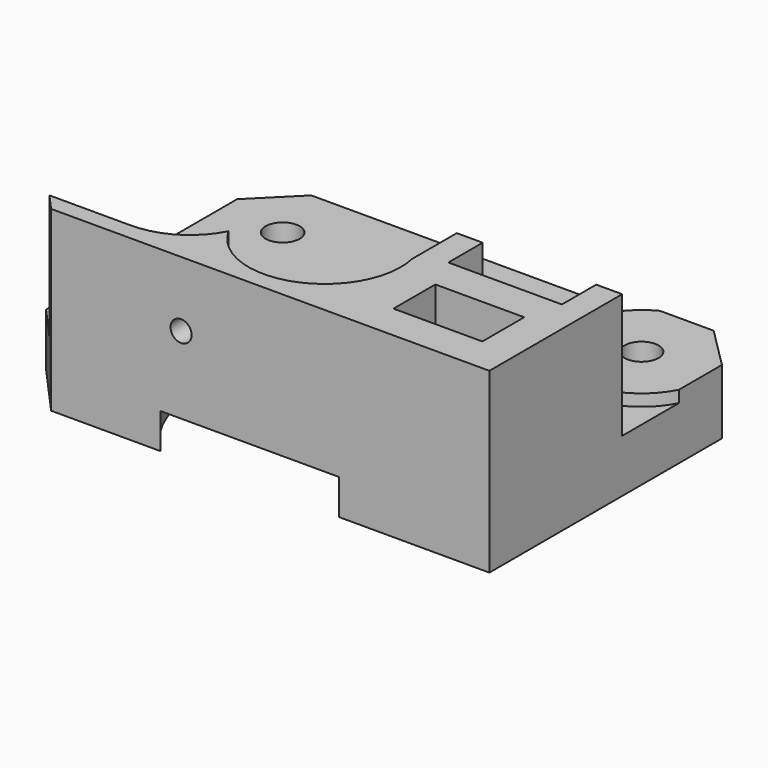
from build123d import *

# Parameters (mm, degrees)
F0_W           = 7.551756
F0_H           = 4.45
F1_DEPTH       = 15.1
F0_R           = 1.45
F0_R_2         = 1.44
F2_DEPTH       = 4.5
F3_DEPTH       = 5.5
F4_R           = 11
F5_DEPTH       = 3
F6_R           = 2.25
F7_DEPTH       = 14
F8_D           = 1.79
F8_CBORE_D     = 1.79
F8_CBORE_DEPTH = 1.45


with BuildPart() as f1:
    # F0 (on Top) → F1 (new body)
    with BuildSketch(Plane.XY):
        with BuildLine():
            Line((2.65426, 1.450184), (3.954988, 0))
            Line((3.954988, 0), (41.2, 0))
            Line((41.2, 0), (41.2, 10.45))
            Line((41.2, 10.45), (41.2, 14.1))
            Line((41.2, 14.1), (39, 14.1))
            Line((39, 14.1), (39, 10.45))
            Line((39, 10.45), (29.35, 10.45))
            Line((29.35, 10.45), (29.35, 14.1))
            Line((29.35, 14.1), (27.15, 14.1))
            Line((27.15, 14.1), (27.15, 10.45))
            Line((27.15, 10.45), (27.15, 9.360534))
            ThreePointArc((27.15, 9.360534), (23.102126, 1.90917), (15.151799, 4.858818))
            ThreePointArc((15.151799, 4.858818), (12.818666, 2.347317), (9.508541, 1.45613))
            Line((9.508541, 1.45613), (9.425105, 1.450184))
            Line((9.425105, 1.450184), (2.65426, 1.450184))
        make_face()
        with Locations((34.424122, 5.225)):
            Rectangle(F0_W, F0_H, mode=Mode.SUBTRACT)
    extrude(amount=F1_DEPTH)

    # F0 (on Top) → F2 (join)
    with BuildSketch(Plane.XY):
        with BuildLine():
            Line((0, 4.409424), (2.65426, 1.450184))
            Line((2.65426, 1.450184), (9.425105, 1.450184))
            Line((9.425105, 1.450184), (9.508541, 1.45613))
            ThreePointArc((9.508541, 1.45613), (12.818666, 2.347317), (15.151799, 4.858818))
            ThreePointArc((15.151799, 4.858818), (23.102126, 1.90917), (27.15, 9.360534))
            Line((27.15, 9.360534), (27.15, 10.45))
            Line((27.15, 10.45), (27.15, 14.1))
            Line((27.15, 14.1), (29.35, 14.1))
            Line((29.35, 14.1), (29.35, 10.45))
            Line((29.35, 10.45), (39, 10.45))
            Line((39, 10.45), (39, 14.1))
            Line((39, 14.1), (41.2, 14.1))
            Line((41.2, 14.1), (41.2, 20.133845))
            ThreePointArc((41.2, 20.133845), (31.607359, 18.607359), (33.133845, 28.2))
            Line((33.133845, 28.2), (8.066155, 28.2))
            ThreePointArc((8.066155, 28.2), (9.592641, 18.607359), (0, 20.133845))
            Line((0, 20.133845), (0, 4.409424))
        make_face()
        with BuildLine():
            ThreePointArc((15.044259, 5.607124), (11.225264, 2.020343), (6.018226, 2.600408))
            ThreePointArc((6.018226, 2.600408), (4.726842, 11.501576), (13.680284, 12.358524))
            ThreePointArc((13.680284, 12.358524), (14.464459, 11.395564), (15.042763, 10.296571))
            ThreePointArc((15.042763, 10.296571), (15.139305, 10.532994), (15.245029, 10.765456))
            ThreePointArc((15.245029, 10.765456), (26.649775, 8.002179), (15.294389, 5.042598))
            ThreePointArc((15.294389, 5.042598), (15.162653, 5.321905), (15.044259, 5.607124))
        make_face(mode=Mode.SUBTRACT)
        with BuildLine():
            Line((0, 24.7), (0, 20.133845))
            ThreePointArc((0, 20.133845), (9.592641, 18.607359), (8.066155, 28.2))
            Line((8.066155, 28.2), (3.5, 28.2))
            Line((3.5, 28.2), (0, 24.7))
        make_face()
        with Locations((5.35, 22.85)):
            Circle(F0_R, mode=Mode.SUBTRACT)
        with BuildLine():
            ThreePointArc((13.680284, 12.358524), (4.726842, 11.501576), (6.018226, 2.600408))
            ThreePointArc((6.018226, 2.600408), (11.225264, 2.020343), (15.044259, 5.607124))
            ThreePointArc((15.044259, 5.607124), (14.926049, 5.938205), (14.825812, 6.275163))
            Line((14.825812, 6.275163), (14.824682, 6.275163))
            ThreePointArc((14.824682, 6.275163), (14.615506, 8.303124), (15.042763, 10.296571))
            ThreePointArc((15.042763, 10.296571), (14.464459, 11.395564), (13.680284, 12.358524))
        make_face()
        with Locations((9.25, 7.95)):
            Circle(F0_R_2, mode=Mode.SUBTRACT)
        with Locations((9.25, 7.95)):
            Circle(F0_R_2)
        with Locations((34.424122, 5.225)):
            Rectangle(F0_W, F0_H)
    extrude(amount=F2_DEPTH)

    # F0 (on Top) → F3 (join)
    with BuildSketch(Plane.XY):
        with BuildLine():
            ThreePointArc((33.133845, 28.2), (31.607359, 18.607359), (41.2, 20.133845))
            Line((41.2, 20.133845), (41.2, 24.7))
            Line((41.2, 24.7), (37.7, 28.2))
            Line((37.7, 28.2), (33.133845, 28.2))
        make_face()
        with Locations((35.85, 22.85)):
            Circle(F0_R, mode=Mode.SUBTRACT)
    extrude(amount=F3_DEPTH)

    # F4 (on Top) → F5 (cut)
    with BuildSketch(Plane.XY):
        with BuildLine():
            ThreePointArc((8.513082, 17.748509), (5.805837, 16.873794), (3, 17.344523))
            Line((3, 17.344523), (3, 3))
            Line((3, 3), (7.743291, 3))
            ThreePointArc((7.743291, 3), (6.98063, 10.038164), (9.758824, 16.549619))
            Line((9.758824, 16.549619), (8.513082, 17.748509))
        make_face()
        with Locations((20.828264, 7.978301)):
            Circle(F4_R)
        with BuildLine():
            Line((38.2, 3), (38.2, 17.33704))
            ThreePointArc((38.2, 17.33704), (35.445261, 16.871427), (32.77831, 17.703745))
            Line((32.77831, 17.703745), (31.773144, 16.708111))
            ThreePointArc((31.773144, 16.708111), (34.660709, 10.137804), (33.913237, 3))
            Line((33.913237, 3), (38.2, 3))
        make_face()
        with BuildLine():
            ThreePointArc((30.667119, 19.835147), (29.862233, 22.47726), (30.326221, 25.2))
            Line((30.326221, 25.2), (10.891282, 25.2))
            ThreePointArc((10.891282, 25.2), (11.357854, 22.520378), (10.593366, 19.910087))
            Line((10.593366, 19.910087), (11.839107, 18.711197))
            ThreePointArc((11.839107, 18.711197), (20.727473, 21.977938), (29.661953, 18.839513))
            Line((29.661953, 18.839513), (30.667119, 19.835147))
        make_face()
    extrude(amount=F5_DEPTH, mode=Mode.SUBTRACT)

    # F6 (on Front) → F7 (join)
    with BuildSketch(Plane.XZ):
        with Locations((34.6, 9.55)):
            Circle(F6_R)
    extrude(amount=-F7_DEPTH)

    # F8 (through all)
    with Locations(Plane.XZ):
        with Locations((15, 9.55)):
            CounterBoreHole(F8_D / 2, F8_CBORE_D / 2, F8_CBORE_DEPTH)


solid = f1.part
